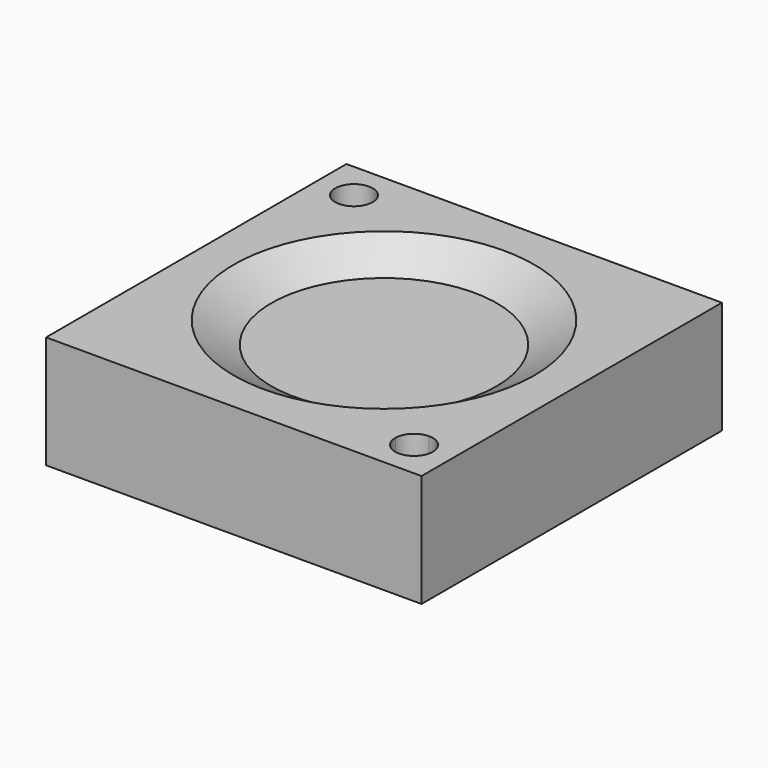
from build123d import *

# Parameters (mm, degrees)
F2_DEPTH = 63.5
F5_DEPTH = 50.8
F7_DEPTH = 50.8


with BuildPart() as f2:
    # F1 (on Front) → F2 (new body, symmetric)
    with BuildSketch(Plane.XZ):
        Polygon((-63.5, -32.291652), (63.5, -32.291652), (63.5, 5.808348), (0, 5.808348), (-63.5, 5.808348), align=None)
    extrude(amount=F2_DEPTH, both=True)

    # F0 (on Front) → F3 (revolve, cut)
    with BuildSketch(Plane.XZ):
        Polygon((38.1, -1.524), (50.8, 5.808348), (0, 5.808348), (0, -1.524), align=None)
    revolve(axis=Axis((0, 0, 2.142174), (0, 0, -1)), mode=Mode.SUBTRACT)

    # F4 (on Top) → F5 (cut, symmetric)
    with BuildSketch(Plane.XY):
        with BuildLine():
            ThreePointArc((-44.45, 50.8), (-55.290128, 55.290128), (-50.8, 44.45))
            Line((-50.8, 44.45), (-50.8, 50.8))
            Line((-50.8, 50.8), (-44.45, 50.8))
        make_face()
        with BuildLine():
            Line((-50.8, 50.8), (-50.8, 44.45))
            ThreePointArc((-50.8, 44.45), (-46.309872, 46.309872), (-44.45, 50.8))
            Line((-44.45, 50.8), (-50.8, 50.8))
        make_face()
    extrude(amount=F5_DEPTH, both=True, mode=Mode.SUBTRACT)

    # F6 (on Top) → F7 (cut, symmetric)
    with BuildSketch(Plane.XY):
        with BuildLine():
            ThreePointArc((50.8, -44.45), (46.309872, -46.309872), (44.45, -50.8))
            Line((44.45, -50.8), (50.8, -50.8))
            Line((50.8, -50.8), (50.8, -44.45))
        make_face()
        with BuildLine():
            Line((50.8, -50.8), (44.45, -50.8))
            ThreePointArc((44.45, -50.8), (50.8, -57.15), (57.15, -50.8))
            ThreePointArc((57.15, -50.8), (55.290128, -46.309872), (50.8, -44.45))
            Line((50.8, -44.45), (50.8, -50.8))
        make_face()
    extrude(amount=F7_DEPTH, both=True, mode=Mode.SUBTRACT)


solid = f2.part
